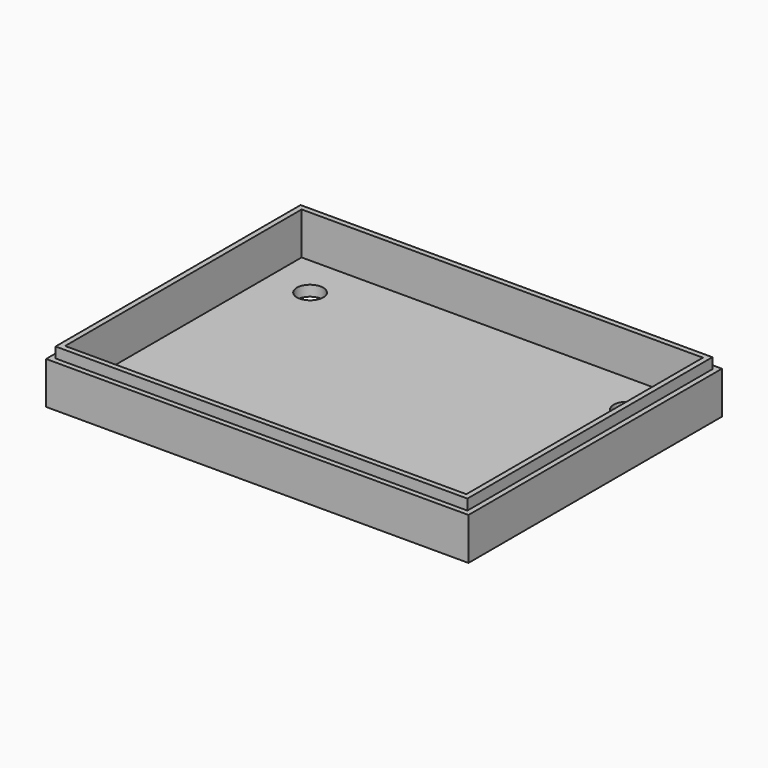
from build123d import *

# Parameters (mm, degrees)
F0_W      = 80
F0_H      = 60
F1_DEPTH  = 10
F2_T      = -2
F3_W      = 80
F3_H      = 60
F3_W_2    = 77.999998
F3_H_2    = 57.999998
F4_DEPTH  = 2
F5_R      = 2.5
F6_DEPTH  = 25
F7_R      = 4
F8_DEPTH  = 1
F10_COUNT = 3


with BuildPart() as f1:
    # F0 (on Top) → F1 (new body)
    with BuildSketch(Plane.XY):
        Rectangle(F0_W, F0_H)
    extrude(amount=F1_DEPTH)

    # F2
    f2_openings = [f1.faces().sort_by_distance(p)[0] for p in [
        (0, 0, 10),
    ]]
    offset(amount=F2_T, openings=f2_openings)

    # F3 (on face) → F4 (cut)
    with BuildSketch(Plane.XY.offset(10)):
        Rectangle(F3_W, F3_H)
        Rectangle(F3_W_2, F3_H_2, mode=Mode.SUBTRACT)
    extrude(amount=-F4_DEPTH, mode=Mode.SUBTRACT)

    # F5 (on face) → F6 (cut)
    with BuildSketch(Plane(origin=(0, 0, 0), x_dir=(1, 0, 0), z_dir=(0, 0, -1))):
        with Locations((-30, 20)):
            Circle(F5_R)
        with Locations((30, -20)):
            Circle(F5_R)
        with Locations((30, 20)):
            Circle(F5_R)
        with Locations((-30, -20)):
            Circle(F5_R)
    extrude(amount=-F6_DEPTH, mode=Mode.SUBTRACT)


with BuildPart() as f8:
    # F7 (on face) → F8 (new body)
    with BuildSketch(Plane(origin=(0, 0, 0), x_dir=(1, 0, 0), z_dir=(0, 0, -1))):
        Circle(F7_R)
        with BuildLine():
            Line((-16.595718, 20.014549), (-4.069261, 5.69571))
            ThreePointArc((-4.069261, 5.69571), (-2.136589, 6.665957), (0, 7))
            Line((0, 7), (0, 26))
            ThreePointArc((0, 26), (-8.821047, 24.457905), (-16.595718, 20.014549))
        make_face()
    extrude(amount=-F8_DEPTH)


with BuildPart() as f10_1:
    # F10: instance of F8
    add(f8.part.rotate(Axis((0, 0, 0.430848), (0, 0, -1)), 1 * 360 / F10_COUNT))


with BuildPart() as f10_2:
    # F10: instance of F8
    add(f8.part.rotate(Axis((0, 0, 0.430848), (0, 0, -1)), 2 * 360 / F10_COUNT))


with BuildPart() as f1_1:
    add(f1.part)

    # F11: cut F8, F10_1, F10_2
    add(f8.part, mode=Mode.SUBTRACT)
    add(f10_1.part, mode=Mode.SUBTRACT)
    add(f10_2.part, mode=Mode.SUBTRACT)


solid = f1_1.part
